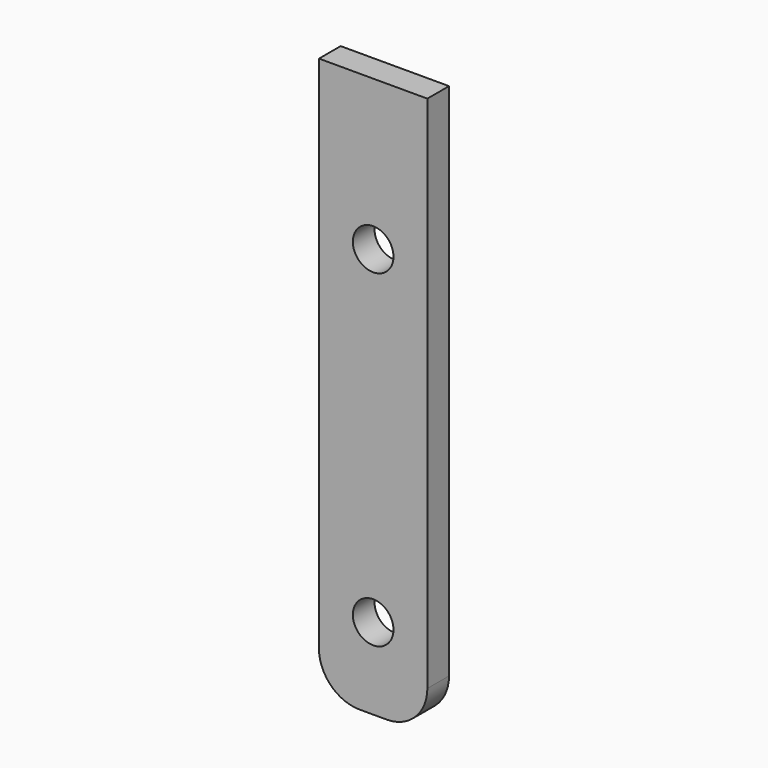
from build123d import *

# Parameters (mm, degrees)
F0_R     = 4.7625
F1_DEPTH = 6.35


with BuildPart() as f1:
    # F0 (on Front) → F1 (new body)
    with BuildSketch(Plane.XZ):
        with BuildLine():
            ThreePointArc((3.175, -19.05), (9.910192, -16.260192), (12.7, -9.525))
            Line((12.7, -9.525), (12.7, 112.161003))
            Line((12.7, 112.161003), (-12.7, 112.161003))
            Line((-12.7, 112.161003), (-12.7, -9.525))
            ThreePointArc((-12.7, -9.525), (-9.910192, -16.260192), (-3.175, -19.05))
            Line((-3.175, -19.05), (3.175, -19.05))
        make_face()
        Circle(F0_R, mode=Mode.SUBTRACT)
        with Locations((0, 76.962)):
            Circle(F0_R, mode=Mode.SUBTRACT)
    extrude(amount=F1_DEPTH)


solid = f1.part
